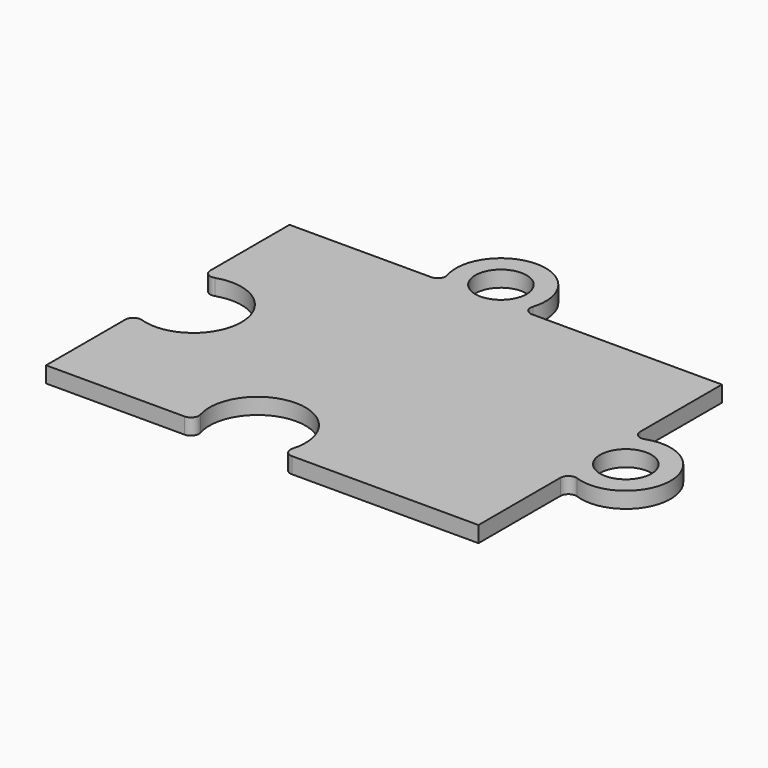
from build123d import *

# Parameters (mm, degrees)
SKETCH_R    = 1.6
PAD_DEPTH   = 1
FILLET_R    = 0.5
FILLET001_R = 0.5
FILLET002_R = 0.5
FILLET003_R = 0.5
FILLET004_R = 0.5
FILLET005_R = 0.5


with BuildPart() as part:
    # Sketch → Pad (new body)
    with BuildSketch(Plane.XY):
        with BuildLine():
            Line((-13.5, 9.5), (-3.864318, 9.5))
            ThreePointArc((0.864318, 9.5), (-1.5, 13.8), (-3.864318, 9.5))
            Line((0.864318, 9.5), (13.5, 9.5))
            Line((13.5, 9.5), (13.5, 2.297825))
            ThreePointArc((13.5, -2.297825), (17.9, 0), (13.5, 2.297825))
            Line((13.5, -2.297825), (13.5, -9.5))
            Line((13.5, -9.5), (1.098076, -9.5))
            ThreePointArc((1.098076, -9.5), (-1.5, -5), (-4.098076, -9.5))
            Line((-4.098076, -9.5), (-13.5, -9.5))
            Line((-13.5, -9.5), (-13.5, -2.537716))
            ThreePointArc((-13.5, -2.537716), (-8.9, 0), (-13.5, 2.537716))
            Line((-13.5, 2.537716), (-13.5, 9.5))
        make_face()
        with Locations((-1.5, 11)):
            Circle(SKETCH_R, mode=Mode.SUBTRACT)
        with Locations((15.1, 0)):
            Circle(SKETCH_R, mode=Mode.SUBTRACT)
    extrude(amount=PAD_DEPTH)

    # Fillet
    fillet_edges = [part.edges().sort_by_distance(p)[0] for p in [
        (-3.864318, 9.5, 0.5),
    ]]
    fillet(fillet_edges, radius=FILLET_R)

    # Fillet001
    fillet001_edges = [part.edges().sort_by_distance(p)[0] for p in [
        (0.864318, 9.5, 0.5),
    ]]
    fillet(fillet001_edges, radius=FILLET001_R)

    # Fillet002
    fillet002_edges = [part.edges().sort_by_distance(p)[0] for p in [
        (13.5, 2.297825, 0.5),
    ]]
    fillet(fillet002_edges, radius=FILLET002_R)

    # Fillet003
    fillet003_edges = [part.edges().sort_by_distance(p)[0] for p in [
        (13.5, -2.297825, 0.5),
    ]]
    fillet(fillet003_edges, radius=FILLET003_R)

    # Fillet004
    fillet004_edges = [part.edges().sort_by_distance(p)[0] for p in [
        (-4.098076, -9.5, 0.5),
    ]]
    fillet(fillet004_edges, radius=FILLET004_R)

    # Fillet005
    fillet005_edges = [part.edges().sort_by_distance(p)[0] for p in [
        (1.098076, -9.5, 0.5),
        (-13.5, -2.537716, 0.5),
        (-13.5, 2.537716, 0.5),
    ]]
    fillet(fillet005_edges, radius=FILLET005_R)


solid = part.part
